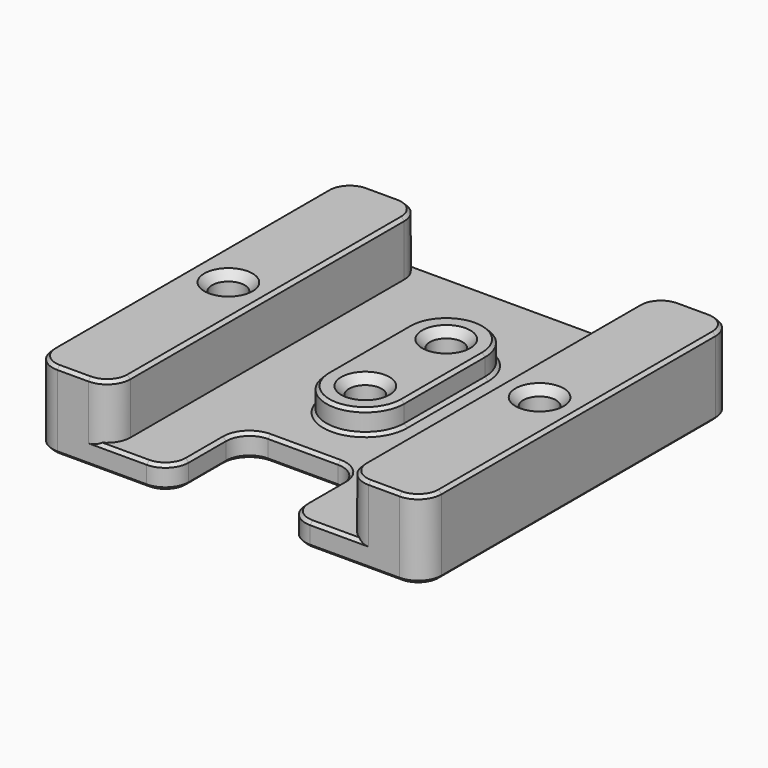
from build123d import *

# Parameters (mm, degrees)
SKETCH219_W     = 50
SKETCH219_H     = 50
PAD112_DEPTH    = 10
SKETCH220_W     = 30
SKETCH220_H     = 7
POCKET049_DEPTH = 60.001
SKETCH221_R     = 2.1
POCKET050_DEPTH = 10.001
PAD113_DEPTH    = 3
SKETCH223_R     = 2.1
POCKET051_DEPTH = 7
SKETCH224_W     = 15
SKETCH224_H     = 12
POCKET052_DEPTH = 3.001
FILLET070_R     = 3
CHAMFER076_SIZE = 1
FILLET071_R     = 3
CHAMFER077_SIZE = 0.4
CHAMFER078_SIZE = 0.4


with BuildPart() as part:
    # Sketch219 → Pad112 (new body)
    with BuildSketch(Plane.XY):
        with Locations((0, 35)):
            Rectangle(SKETCH219_W, SKETCH219_H)
    extrude(amount=-PAD112_DEPTH)

    # Sketch220 → Pocket049 (cut, through all)
    with BuildSketch(Plane.XZ):
        with Locations((0, -3.5)):
            Rectangle(SKETCH220_W, SKETCH220_H)
    extrude(amount=-POCKET049_DEPTH, mode=Mode.SUBTRACT)

    # Sketch221 → Pocket050 (cut, through all)
    with BuildSketch(Plane.XY):
        with Locations((-20, 35)):
            Circle(SKETCH221_R)
        with Locations((20, 35)):
            Circle(SKETCH221_R)
    extrude(amount=-POCKET050_DEPTH, mode=Mode.SUBTRACT)

    # Sketch222 (on Face8 of Pocket050) → Pad113 (join)
    with BuildSketch(Plane.XY.offset(-7)):
        with BuildLine():
            ThreePointArc((5, 45), (0, 50), (-5, 45))
            Line((-5, 45), (-5, 32))
            ThreePointArc((-5, 32), (0, 27), (5, 32))
            Line((5, 32), (5, 45))
        make_face()
    extrude(amount=PAD113_DEPTH)

    # Sketch223 (on Face17 of Pad113) → Pocket051 (cut)
    with BuildSketch(Plane.XY.offset(-4)):
        with Locations((0, 45)):
            Circle(SKETCH223_R)
        with Locations((0, 32)):
            Circle(SKETCH223_R)
    extrude(amount=-POCKET051_DEPTH, mode=Mode.SUBTRACT)

    # Sketch224 (on Face8 of Pocket051) → Pocket052 (cut, through all)
    with BuildSketch(Plane.XY.offset(-7)):
        with Locations((0, 16)):
            Rectangle(SKETCH224_W, SKETCH224_H)
    extrude(amount=-POCKET052_DEPTH, mode=Mode.SUBTRACT)

    # Fillet070
    fillet070_edges = [part.edges().sort_by_distance(p)[0] for p in [
        (-7.5, 10, -8.5),
        (7.5, 10, -8.5),
        (-7.5, 22, -8.5),
        (7.5, 22, -8.5),
    ]]
    fillet(fillet070_edges, radius=FILLET070_R)

    # Chamfer076
    chamfer076_edges = [part.edges().sort_by_distance(p)[0] for p in [
        (-22.1, 35, 0),
        (-22.1, 35, -10),
        (-2.1, 32, -4),
        (-2.1, 32, -10),
        (-2.1, 45, -4),
        (-2.1, 45, -10),
        (17.9, 35, 0),
        (17.9, 35, -10),
    ]]
    chamfer(chamfer076_edges, length=CHAMFER076_SIZE)

    # Fillet071
    fillet071_edges = [part.edges().sort_by_distance(p)[0] for p in [
        (-25, 10, -5),
        (-25, 60, -5),
        (25, 60, -5),
        (25, 10, -5),
        (-15, 10, -3.5),
        (-15, 60, -3.5),
        (15, 60, -3.5),
        (15, 10, -3.5),
    ]]
    fillet(fillet071_edges, radius=FILLET071_R)

    # Chamfer077
    chamfer077_edges = [part.edges().sort_by_distance(p)[0] for p in [
        (8.37868, 10.87868, -10),
    ]]
    chamfer(chamfer077_edges, length=CHAMFER077_SIZE)

    # Chamfer078
    chamfer078_edges = [part.edges().sort_by_distance(p)[0] for p in [
        (-20, 10, 0),
        (20, 10, 0),
        (0, 27, -4),
        (0, 27, -7),
        (-12.75, 10, -7),
        (0, 60, -7),
    ]]
    chamfer(chamfer078_edges, length=CHAMFER078_SIZE)


with BuildPart() as part_1:
    # Body097 placement: moved
    add(part.part.moved(Location((0, 0, 320))))


solid = part_1.part
